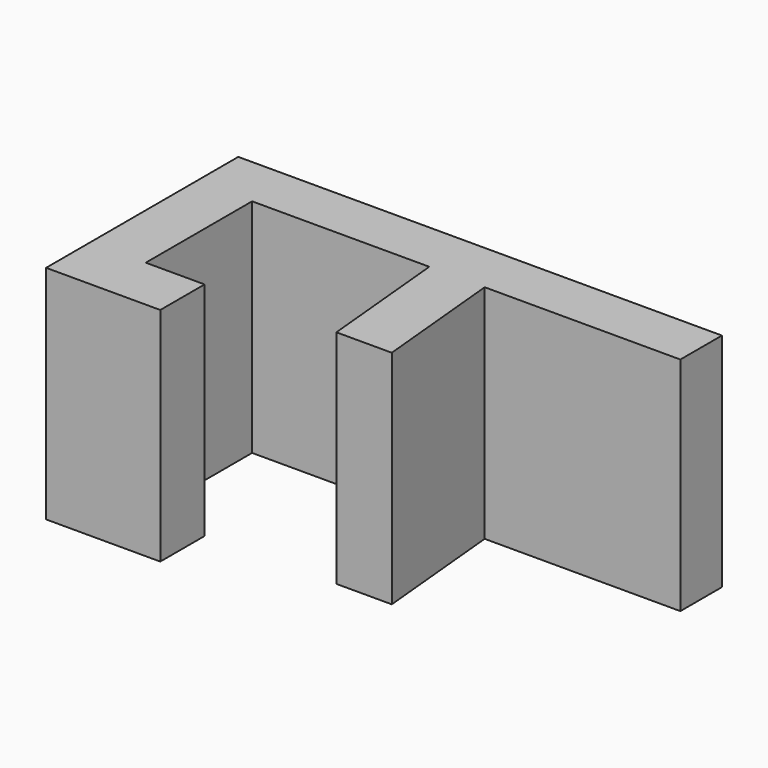
from build123d import *

# Parameters (mm, degrees)
F0_W     = 3.175
F0_H     = 2.978667
F0_W_2   = 10.16
F0_H_2   = 7.62
F0_H_3   = 3.175
F0_W_3   = 3.372148
F1_DEPTH = 12.7
F2_W     = 6.884132
F2_H     = 8.857906
F3_DEPTH = 25.4


with BuildPart() as f1:
    # F0 (on Top) → F1 (new body)
    with BuildSketch(Plane.XY):
        with Locations((-11.7475, 1.489333)):
            Rectangle(F0_W, F0_H)
        with Locations((-5.08, 1.489333)):
            Rectangle(F0_W_2, F0_H)
        with Locations((-11.7475, -3.81)):
            Rectangle(F0_W, F0_H_2)
        Polygon((2.891317, 2.978667), (0, 2.978667), (0, 0), (3.175, 0), align=None)
        with Locations((-11.7475, -9.2075)):
            Rectangle(F0_W, F0_H_3)
        with Locations((-8.473926, -9.2075)):
            Rectangle(F0_W_3, F0_H_3)
        Polygon((3.175, 0), (0, 0), (1.27, -13.335), (1.27, -10.16), (4.142619, -10.16), align=None)
        Polygon((14.394098, 2.978667), (2.891317, 2.978667), (3.175, 0), (14.394098, 0), align=None)
        Polygon((1.27, -10.16), (1.27, -13.335), (4.445, -13.335), (4.142619, -10.16), align=None)
        Polygon((4.445, -10.16), (4.142619, -10.16), (4.445, -13.335), align=None)
    extrude(amount=F1_DEPTH)

    # F2 (on Top) → F3 (cut)
    with BuildSketch(Plane.XY):
        with Locations((3.442066, -11.987058)):
            Rectangle(F2_W, F2_H)
    extrude(amount=F3_DEPTH, mode=Mode.SUBTRACT)


solid = f1.part
